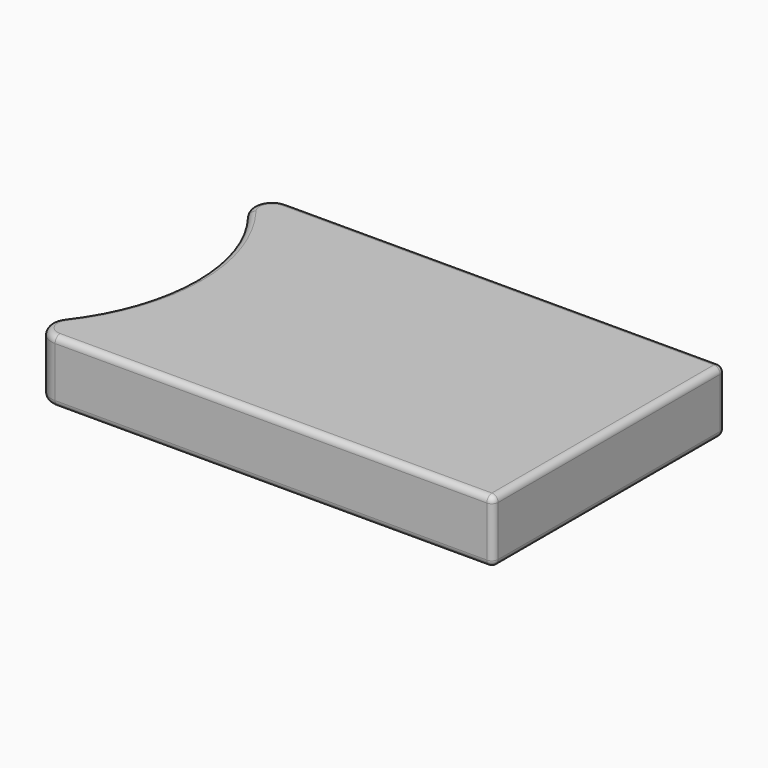
from build123d import *

# Parameters (mm, degrees)
F1_DEPTH = 12.7
F2_R     = 3.81
F3_R     = 1.27


with BuildPart() as f1:
    # F0 (on Top) → F1 (new body)
    with BuildSketch(Plane.XY):
        with BuildLine():
            Line((79.179575, 29.36875), (-18.46932, 29.36875))
            ThreePointArc((-18.46932, 29.36875), (-8.27059, 16.230849), (-4.640425, 0))
            ThreePointArc((-4.640425, 0), (-8.27059, -16.230849), (-18.46932, -29.36875))
            Line((-18.46932, -29.36875), (79.179575, -29.36875))
            Line((79.179575, -29.36875), (79.179575, 29.36875))
        make_face()
    extrude(amount=F1_DEPTH)

    # F2
    f2_edges = [f1.edges().sort_by_distance(p)[0] for p in [
        (-18.46932, 29.36875, 6.35),
        (-18.46932, -29.36875, 6.35),
    ]]
    fillet(f2_edges, radius=F2_R)

    # F3
    f3_edges = [f1.edges().sort_by_distance(p)[0] for p in [
        (34.82679, -29.36875, 12.7),
        (-12.944234, -27.241527, 12.7),
        (79.179575, 0, 12.7),
        (-4.640425, 0, 12.7),
        (34.82679, 29.36875, 12.7),
        (-12.944234, 27.241527, 12.7),
        (34.82679, -29.36875, 0),
        (-12.944234, -27.241527, 0),
        (79.179575, 0, 0),
        (-4.640425, 0, 0),
        (34.82679, 29.36875, 0),
        (-12.944234, 27.241527, 0),
        (79.179575, -29.36875, 6.35),
        (79.179575, 29.36875, 6.35),
    ]]
    fillet(f3_edges, radius=F3_R)


solid = f1.part
